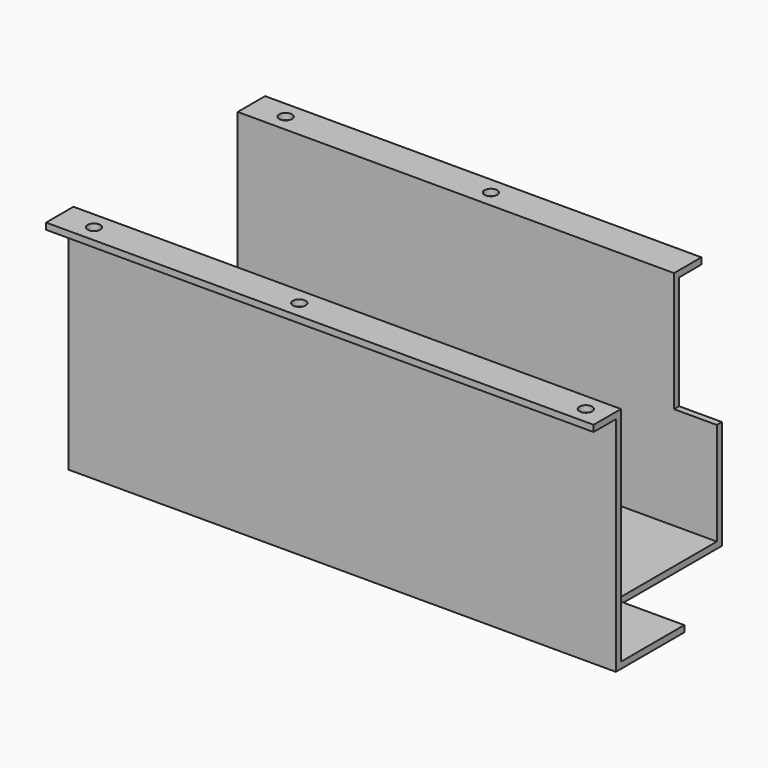
from build123d import *

# Parameters (mm, degrees)
F1_DEPTH = 203.2
F2_W     = 82.55
F2_H     = 88.9
F3_DEPTH = 101.601
F4_W     = 50.8
F4_H     = 98.3996
F5_DEPTH = 169.8508
F6_R     = 4.7625
F7_DEPTH = 169.8508


with BuildPart() as f1:
    # F0 (on Right) → F1 (new body, symmetric)
    with BuildSketch(Plane.YZ):
        Polygon((76.2, 0), (-76.2, 0), (-76.2, 165.1), (-101.6, 165.1), (-101.6, 160.3502), (-80.9498, 160.3502), (-80.9498, -4.7498), (80.9498, -4.7498), (80.9498, 160.3502), (101.6, 160.3502), (101.6, 165.1), (76.2, 165.1), align=None)
    extrude(amount=F1_DEPTH, both=True)

    # F2 (on Front) → F3 (cut, through all)
    with BuildSketch(Plane.XZ):
        with Locations((161.925, 120.65)):
            Rectangle(F2_W, F2_H)
    extrude(amount=-F3_DEPTH, mode=Mode.SUBTRACT)

    # F4 (on face) → F5 (cut, through all)
    with BuildSketch(Plane(origin=(0, 0, -4.7498), x_dir=(1, 0, 0), z_dir=(0, 0, -1))):
        with Locations((177.8, -31.75)):
            Rectangle(F4_W, F4_H)
    extrude(amount=-F5_DEPTH, mode=Mode.SUBTRACT)

    # F6 (on face) → F7 (cut, through all)
    with BuildSketch(Plane.XY.offset(165.1)):
        with Locations((-177.8, 88.9)):
            Circle(F6_R)
        with Locations((-25.4, 88.9)):
            Circle(F6_R)
        with Locations((-177.8, -88.9)):
            Circle(F6_R)
        with Locations((-25.4, -88.9)):
            Circle(F6_R)
        with Locations((187.325, -88.9)):
            Circle(F6_R)
    extrude(amount=-F7_DEPTH, mode=Mode.SUBTRACT)


solid = f1.part
